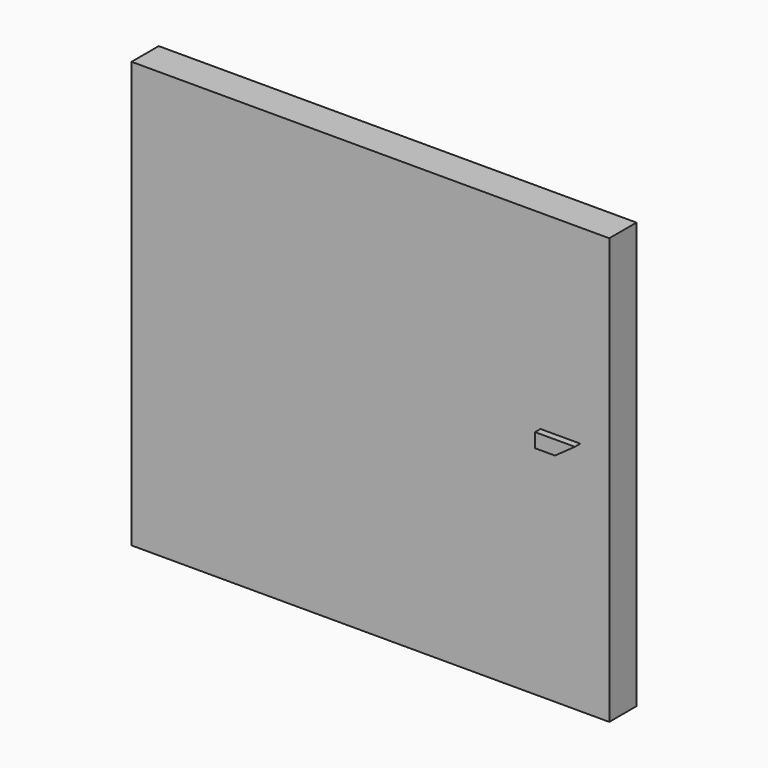
from build123d import *

# Parameters (mm, degrees)
F0_W     = 14.058862
F0_H     = 12.530725
F1_DEPTH = 1
F3_DEPTH = 0.2


with BuildPart() as f1:
    # F0 (on Front) → F1 (new body)
    with BuildSketch(Plane.XZ):
        with Locations((-7.029431, 6.265362)):
            Rectangle(F0_W, F0_H)
    extrude(amount=F1_DEPTH)

    # F2 (on face) → F3 (join)
    with BuildSketch(Plane.XZ.offset(1)):
        Polygon((-1.437689, 6.514117), (-0.852263, 6.93188), (-2.023116, 6.93188), (-2.023116, 6.514117), align=None)
    extrude(amount=F3_DEPTH)


solid = f1.part
